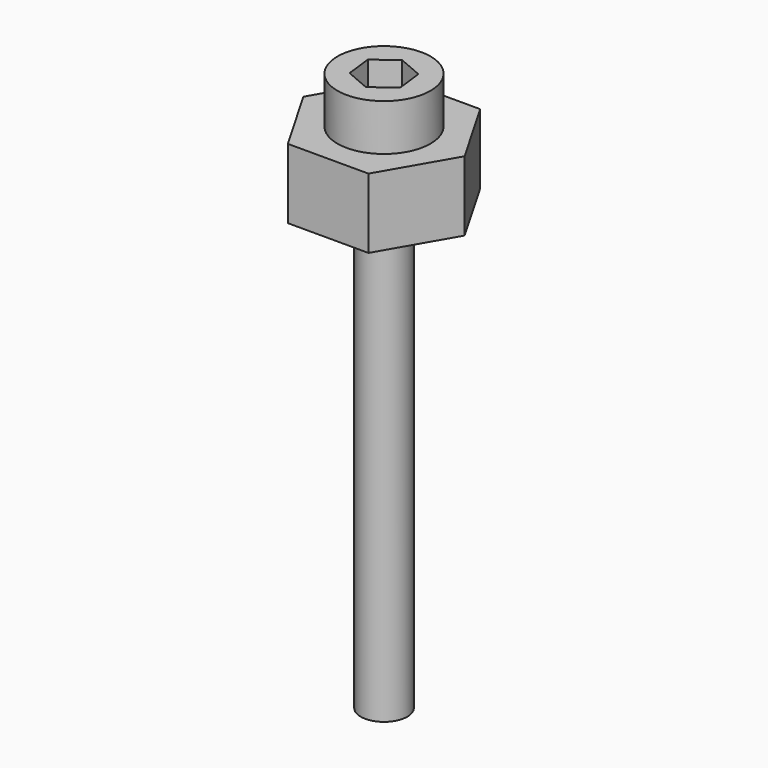
from build123d import *

# Parameters (mm, degrees)
F0_R      = 1.5875
F1_DEPTH  = 4.7625
F2_R      = 3.175
F3_DEPTH  = 3.175
F4_R      = 1.5875
F5_DEPTH  = 34.925
F7_DEPTH  = 3.048
F9_DEPTH  = 3.175
F11_R     = 1.5875
F12_DEPTH = 25.4
F14_R     = 3.175
F15_DEPTH = 3.175
F16_R     = 1.5875
F17_DEPTH = 34.925
F19_DEPTH = 2.38125


with BuildPart() as f1:
    # F0 (on Top) → F1 (new body)
    with BuildSketch(Plane.XY):
        Polygon((-2.749630657, -4.7625), (2.749630657, -4.7625), (5.499261314, 0), (2.749630657, 4.7625), (-2.749630657, 4.7625), (-5.499261314, 0), align=None)
        Circle(F0_R, mode=Mode.SUBTRACT)
    extrude(amount=-F1_DEPTH)


with BuildPart() as f3:
    # F2 (on Top) → F3 (new body)
    with BuildSketch(Plane.XY):
        Circle(F2_R)
    extrude(amount=F3_DEPTH)

    # F6 (on face) → F7 (join)
    with BuildSketch(Plane.XY.offset(3.175)):
        Polygon((-1.7250356923, 0.6200485413), (-1.3994956345, -1.1839004614), (0.3255400579, -1.8039490026), (1.7250356923, -0.6200485413), (1.3994956345, 1.1839004614), (-0.3255400579, 1.8039490026), align=None)
    extrude(amount=-F7_DEPTH)

    # F8 (on face) → F9 (cut)
    with BuildSketch(Plane.XY.offset(3.175)):
        Polygon((-0.0873734126, -1.8310036101), (1.5420089344, -0.9911694), (1.6293823471, 0.8398342101), (0.0873734126, 1.8310036101), (-1.5420089344, 0.9911694), (-1.6293823471, -0.8398342101), align=None)
    extrude(amount=-F9_DEPTH, mode=Mode.SUBTRACT)


with BuildPart() as f5:
    # F4 (on face) → F5 (new body)
    with BuildSketch(Plane(origin=(0, 0, 0), x_dir=(1, 0, 0), z_dir=(0, 0, -1))):
        Circle(F4_R)
    extrude(amount=F5_DEPTH)


with BuildPart() as f12:
    # F11 (on face) → F12 (new body)
    with BuildSketch(Plane.XY):
        Polygon((5.4008311415, 1.0358078881), (1.8033796262, 5.1951609141), (-3.5974515153, 4.159353026), (-5.4008311415, -1.0358078881), (-1.8033796262, -5.1951609141), (3.5974515153, -4.159353026), align=None)
        Circle(F11_R, mode=Mode.SUBTRACT)
    extrude(amount=F12_DEPTH)


with BuildPart() as f15:
    # F14 (on Top) → F15 (new body)
    with BuildSketch(Plane.XY):
        Circle(F14_R)
    extrude(amount=F15_DEPTH)

    # F16 (on face) → F17 (join)
    with BuildSketch(Plane(origin=(0, 0, 0), x_dir=(1, 0, 0), z_dir=(0, 0, -1))):
        Circle(F16_R)
    extrude(amount=F17_DEPTH)

    # F18 (on face) → F19 (cut)
    with BuildSketch(Plane.XY.offset(3.175)):
        Polygon((-0.216312616, 1.8202794251), (-1.6845645321, 0.7228074919), (-1.4682519161, -1.0974719332), (0.216312616, -1.8202794251), (1.6845645321, -0.7228074919), (1.4682519161, 1.0974719332), align=None)
    extrude(amount=-F19_DEPTH, mode=Mode.SUBTRACT)


solid = Compound([f1.part, f15.part])
